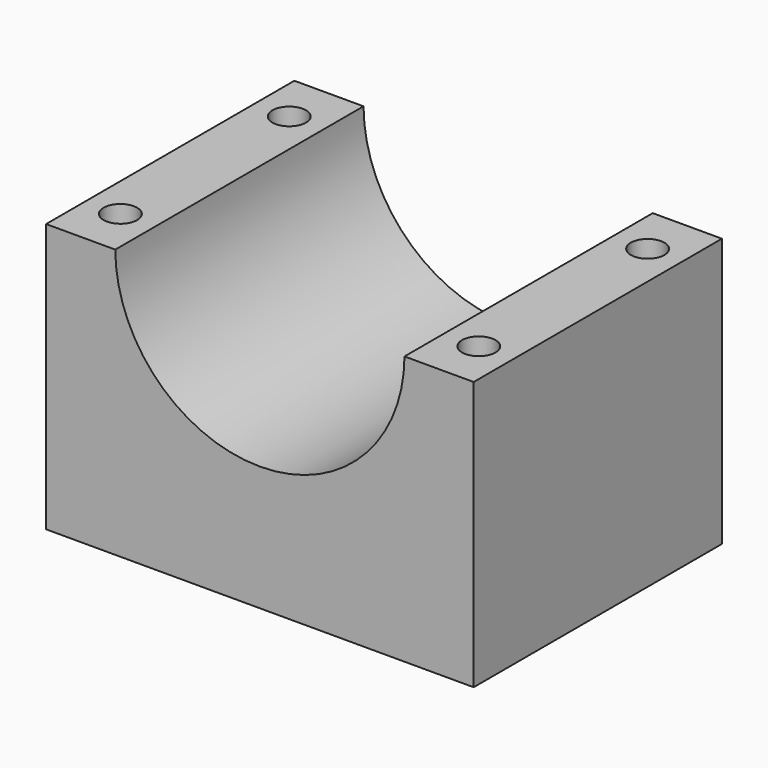
from build123d import *

# Parameters (mm, degrees)
F0_W     = 34.4444442836
F0_H     = 25
F1_DEPTH = 21.65
F3_D     = 23.3
F5_D     = 2.7
F7_D     = 5.4
F7_DEPTH = 12
F7_TIP   = 1.6223236714


with BuildPart() as f1:
    # F0 (on Top) → F1 (new body)
    with BuildSketch(Plane.XY):
        with Locations((-41.7105928063, 18.1163050001)):
            Rectangle(F0_W, F0_H)
    extrude(amount=F1_DEPTH)

    # F3 (through all)
    with Locations(Plane.XZ.offset(-5.6163050001)):
        with Locations((-41.7105928063, 21.7)):
            Hole(F3_D / 2)

    # F5 (through all)
    with Locations(Plane.XY.offset(21.65)):
        with Locations((-56.1466502289, 26.6163050001), (-56.1466502289, 9.6163050001), (-27.2745353838, 9.6163050001), (-27.2745353838, 26.6163050001)):
            Hole(F5_D / 2)

    # F7
    with Locations(Plane(origin=(0, 0, 0), x_dir=(1, 0, 0), z_dir=(0, 0, -1))):
        with Locations((-56.1466502289, -9.6163050001), (-56.1466502289, -26.6163050001), (-27.2745353838, -26.6163050001), (-27.2745353838, -9.6163050001)):
            Hole(F7_D / 2, depth=F7_DEPTH)
            with Locations((0, 0, -(F7_DEPTH + F7_TIP / 2))):  # 118° drill point
                Cone(0, F7_D / 2, F7_TIP, mode=Mode.SUBTRACT)


solid = f1.part
